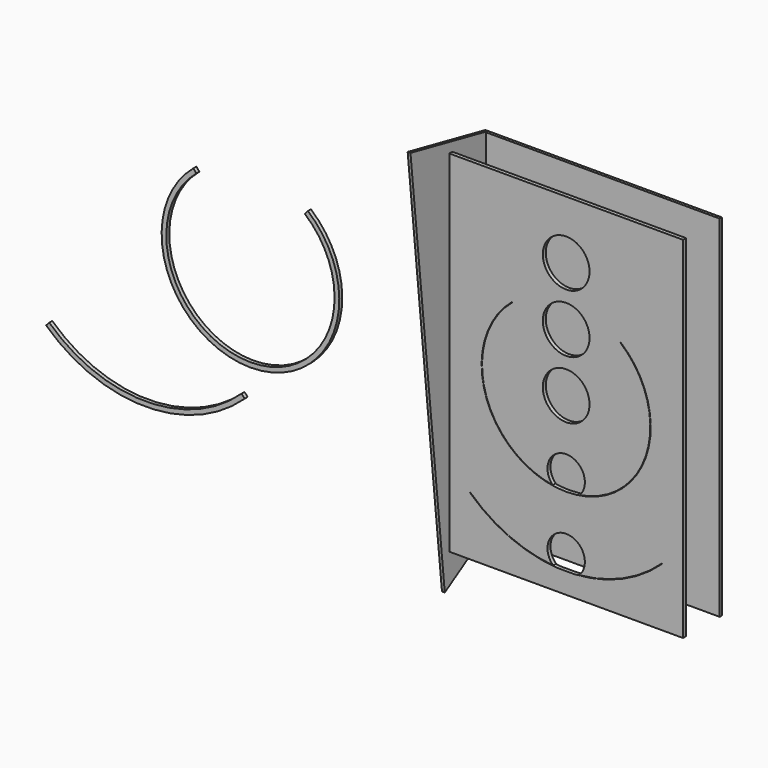
from build123d import *

# Parameters (mm, degrees)
F0_W     = 500
F0_H     = 750
F0_R     = 50
F1_DEPTH = 8
F3_W     = 500
F3_H     = 750
F4_DEPTH = 6
F6_DEPTH = 6
F7_W     = 8.6669959128
F7_H     = 10.1114958525
F8_DEPTH = 120
F7_W_2   = 10.1114958525
F7_H_2   = 7.9447329044
F7_W_3   = 10.4023874094


with BuildPart() as f1:
    # F0 (on Front) → F1 (new body)
    with BuildSketch(Plane.XZ):
        Rectangle(F0_W, F0_H)
        with BuildLine():
            ThreePointArc((-27.8585246144, -328.7037037037), (0, -260), (27.8585246144, -328.7037037037))
            ThreePointArc((27.8585246144, -328.7037037037), (123.0555555928, -303.6006766032), (205, -249.0319611381))
            Line((205, -249.0319611381), (205.615, -249.6890570215))
            ThreePointArc((205.615, -249.6890570215), (0, -330.9), (-205.615, -249.6890570215))
            Line((-205.615, -249.6890570215), (-205, -249.0319611381))
            ThreePointArc((-205, -249.0319611381), (-123.0555555928, -303.6006766032), (-27.8585246144, -328.7037037037))
        make_face(mode=Mode.SUBTRACT)
        with BuildLine():
            ThreePointArc((-28.8886752129, -177.6666666667), (0, -110), (28.8886752129, -177.6666666667))
            ThreePointArc((28.8886752129, -177.6666666667), (173.5519693617, -47.7463499201), (115.7017697436, 137.8879997614))
            Line((115.7017697436, 137.8879997614), (116.2802785923, 138.5774397602))
            ThreePointArc((116.2802785923, 138.5774397602), (0, -180.9), (-116.2802785923, 138.5774397602))
            Line((-116.2802785923, 138.5774397602), (-115.7017697436, 137.8879997614))
            ThreePointArc((-115.7017697436, 137.8879997614), (-173.5519693617, -47.7463499201), (-28.8886752129, -177.6666666667))
        make_face(mode=Mode.SUBTRACT)
        Circle(F0_R, mode=Mode.SUBTRACT)
        with Locations((0, 125)):
            Circle(F0_R, mode=Mode.SUBTRACT)
        with Locations((0, 250)):
            Circle(F0_R, mode=Mode.SUBTRACT)
    extrude(amount=F1_DEPTH)


with BuildPart() as f1b:
    # F0 (on Front) → F1, piece 2 (new body)
    with BuildSketch(Plane.XZ):
        with BuildLine():
            ThreePointArc((-558.9278396272, 160.6528254497), (-675.9668255761, -156.5520806408), (-791.1396969897, 161.3351420816))
            Line((-791.1396969897, 161.3351420816), (-797.5675727374, 168.9955860967))
            ThreePointArc((-797.5675727374, 168.9955860967), (-675.996208815, -166.5520369288), (-552.4550573332, 168.2753629873))
            Line((-552.4550573332, 168.2753629873), (-558.9278396272, 160.6528254497))
        make_face()
    extrude(amount=F1_DEPTH)


with BuildPart() as f1c:
    # F0 (on Front) → F1, piece 3 (new body)
    with BuildSketch(Plane.XZ):
        with BuildLine():
            ThreePointArc((-694.5936520195, -221.9621728305), (-900.2086520195, -303.173115809), (-1105.8236520195, -221.9621728305))
            Line((-1105.8236520195, -221.9621728305), (-1112.6569849732, -229.2632377962))
            ThreePointArc((-1112.6569849732, -229.2632377962), (-900.2086520195, -313.1731152534), (-687.7603190658, -229.2632377962))
            Line((-687.7603190658, -229.2632377962), (-694.5936520195, -221.9621728305))
        make_face()
    extrude(amount=F1_DEPTH)


with BuildPart() as f4:
    # F3 (on offset) → F4 (new body)
    with BuildSketch(Plane(origin=(0, 90, 0), x_dir=(-1, 0, 0), z_dir=(0, 1, 0))):
        Rectangle(F3_W, F3_H)
    extrude(amount=F4_DEPTH)


with BuildPart() as f6:
    # F5 (on face) → F6 (new body)
    with BuildSketch(Plane(origin=(-250, 0, 0), x_dir=(0, -1, 0), z_dir=(-1, 0, 0))):
        Polygon((-451.6316167585, -154.4180014579), (20.1405147497, -447.0366402985), (111.8974655583, 418.2055107517), (-96, 375), (-376.0156796793, -32.5067932273), align=None)
    extrude(amount=F6_DEPTH)


with BuildPart() as f8:
    # F7 (on face) → F8 (new body)
    with BuildSketch(Plane.XZ.offset(8)):
        with Locations((61.6839509457, -200.20904392)):
            Rectangle(F7_W, F7_H)
    extrude(amount=-F8_DEPTH)


with BuildPart() as f8b:
    # F7 (on face) → F8, piece 2 (new body)
    with BuildSketch(Plane.XZ.offset(8)):
        with Locations((-228.6602780223, -233.793631196)):
            Rectangle(F7_W_2, F7_H_2)
    extrude(amount=-F8_DEPTH)


with BuildPart() as f8c:
    # F7 (on face) → F8, piece 3 (new body)
    with BuildSketch(Plane.XZ.offset(8)):
        with Locations((-111.0790848876, -221.8765243888)):
            Rectangle(F7_W_3, F7_H)
    extrude(amount=-F8_DEPTH)


solid = Compound([f1.part, f1b.part, f1c.part, f4.part, f6.part])
